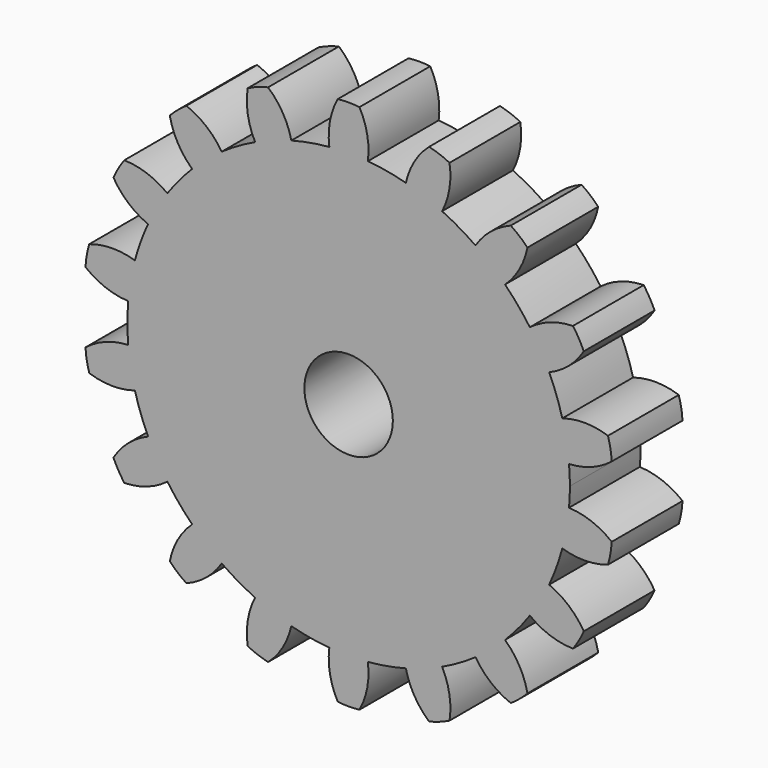
from build123d import *

# Parameters (mm, degrees)
F0_R     = 2.5
F1_DEPTH = 5
F2_COUNT = 18


with BuildPart() as f1:
    # F0 (on Front) → F1 (new body)
    with BuildSketch(Plane.XZ):
        with BuildLine():
            ThreePointArc((-1.0894467843, 12.4524337261), (-8.4448775952, -9.2159667101), (12.5, 0))
            ThreePointArc((12.5, 0), (9.2159667101, 8.4448775952), (1.0894467843, 12.4524337261))
            ThreePointArc((1.0894467843, 12.4524337261), (0, 12.5), (-1.0894467843, 12.4524337261))
        make_face()
        Circle(F0_R, mode=Mode.SUBTRACT)
        with BuildLine():
            ThreePointArc((-1.0894467843, 12.4524337261), (0, 12.5), (1.0894467843, 12.4524337261))
            ThreePointArc((1.0894467843, 12.4524337261), (1.0527842675, 13.7576625834), (0.6138861357, 14.9874328626))
            ThreePointArc((0.6138861357, 14.9874328626), (0, 15.0232996939), (-0.6138861357, 14.9874328626))
            ThreePointArc((-0.6138861357, 14.9874328626), (-1.0527842675, 13.7576625834), (-1.0894467843, 12.4524337261))
        make_face()
    extrude(amount=F1_DEPTH)

    # F2: F1 ×18 about axis
    f2_axis = Axis((0, 0, 0), (0, 1, 0))


with BuildPart() as f1_1:
    add(f1.part)
    for i in range(1, F2_COUNT):
        add(f1.part.rotate(f2_axis, i * 360 / F2_COUNT))


solid = f1_1.part
